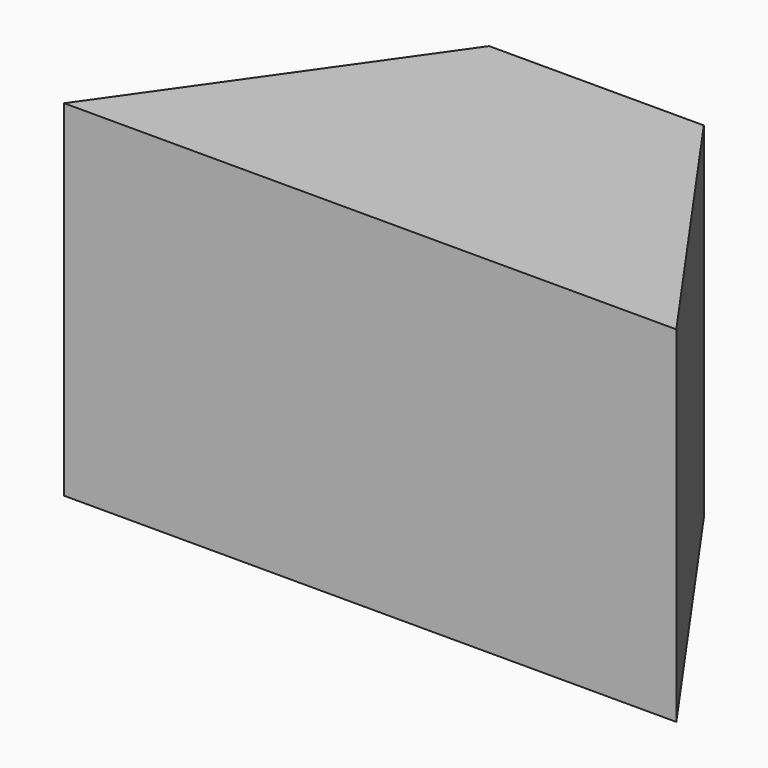
from build123d import *

# Parameters (mm, degrees)
F0_W     = 13
F0_H     = 8.750424
F1_DEPTH = 27
F3_DEPTH = 33


with BuildPart() as f1:
    # F0 (on Front) → F1 (new body)
    with BuildSketch(Plane.XZ):
        Polygon((29.832285, 15.899386), (-28.617715, 15.899386), (-28.617715, -17.100614), (-4.117715, -17.100614), (-4.117715, -8.35019), (8.882285, -8.35019), (8.882285, -17.100614), (29.832285, -17.100614), align=None)
        with Locations((2.382285, -12.725402)):
            Rectangle(F0_W, F0_H)
        Polygon((29.832285, 15.899386), (-28.617715, 15.899386), (-28.617715, -17.100614), (-4.117715, -17.100614), (-4.117715, -8.35019), (8.882285, -8.35019), (8.882285, -17.100614), (29.832285, -17.100614), align=None)
    extrude(amount=F1_DEPTH)

    # F2 (on face) → F3 (cut)
    with BuildSketch(Plane.XY.offset(15.899386)):
        Polygon((-28.617715, 0), (-28.617715, -27), (-9.641797, 0), align=None)
        Polygon((10.856367, 0), (29.832285, -27), (29.832285, 0), align=None)
    extrude(amount=-F3_DEPTH, mode=Mode.SUBTRACT)


solid = f1.part
